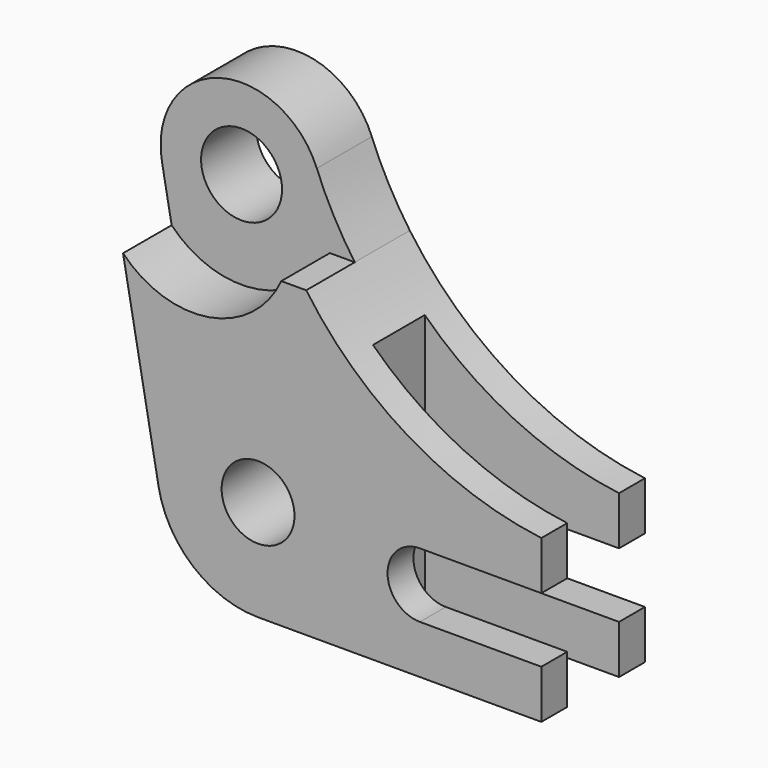
from build123d import *

# Parameters (mm, degrees)
F0_R     = 9
F0_R_2   = 10
F1_DEPTH = 32
F2_R     = 10
F3_DEPTH = 15
F4_W     = 48
F4_H     = 16
F5_DEPTH = 105.001


with BuildPart() as f1:
    # F0 (on Front) → F1 (new body)
    with BuildSketch(Plane.XZ):
        with BuildLine():
            Line((-70, 0), (0, 0))
            Line((0, 0), (0, 12))
            Line((0, 12), (-30, 12))
            ThreePointArc((-30, 12), (-38, 20), (-30, 28))
            Line((-30, 28), (0, 28))
            Line((0, 28), (0, 40))
            ThreePointArc((0, 40), (-32.741064, 51.374572), (-58.1024, 75))
            Line((-58.1024, 75), (-64.259527, 75))
            ThreePointArc((-64.259527, 75), (-82.050541, 61.34016), (-103.358452, 68.346179))
            Line((-103.358452, 68.346179), (-94.590621, 20.494296))
            ThreePointArc((-94.590621, 20.494296), (-86.005584, 5.795279), (-70, 0))
        make_face()
        with Locations((-70, 25)):
            Circle(F0_R, mode=Mode.SUBTRACT)
        with BuildLine():
            Line((-105.749448, 81.395437), (-103.358452, 68.346179))
            ThreePointArc((-103.358452, 68.346179), (-82.050541, 61.34016), (-64.259527, 75))
            Line((-64.259527, 75), (-58.1024, 75))
            ThreePointArc((-58.1024, 75), (-63.305667, 83.4088), (-67.484714, 92.370801))
            ThreePointArc((-67.484714, 92.370801), (-91.591151, 104.224817), (-105.749448, 81.395437))
        make_face()
        with Locations((-86.076952, 85)):
            Circle(F0_R_2, mode=Mode.SUBTRACT)
    extrude(amount=F1_DEPTH)

    # F2 (on face) → F3 (cut)
    with BuildSketch(Plane.XZ.offset(32)):
        with BuildLine():
            ThreePointArc((-67.484714, 92.370801), (-91.591151, 104.224817), (-105.749448, 81.395437))
            Line((-105.749448, 81.395437), (-103.358452, 68.346179))
            ThreePointArc((-103.358452, 68.346179), (-82.050541, 61.34016), (-64.259527, 75))
            Line((-64.259527, 75), (-58.1024, 75))
            ThreePointArc((-58.1024, 75), (-63.305667, 83.4088), (-67.484714, 92.370801))
        make_face()
        with Locations((-86.076952, 85)):
            Circle(F2_R, mode=Mode.SUBTRACT)
    extrude(amount=-F3_DEPTH, mode=Mode.SUBTRACT)

    # F4 (on face) → F5 (cut, through all)
    with BuildSketch(Plane(origin=(0, 0, 0), x_dir=(1, 0, 0), z_dir=(0, 0, -1))):
        with Locations((-24, 16)):
            Rectangle(F4_W, F4_H)
    extrude(amount=-F5_DEPTH, mode=Mode.SUBTRACT)


solid = f1.part
